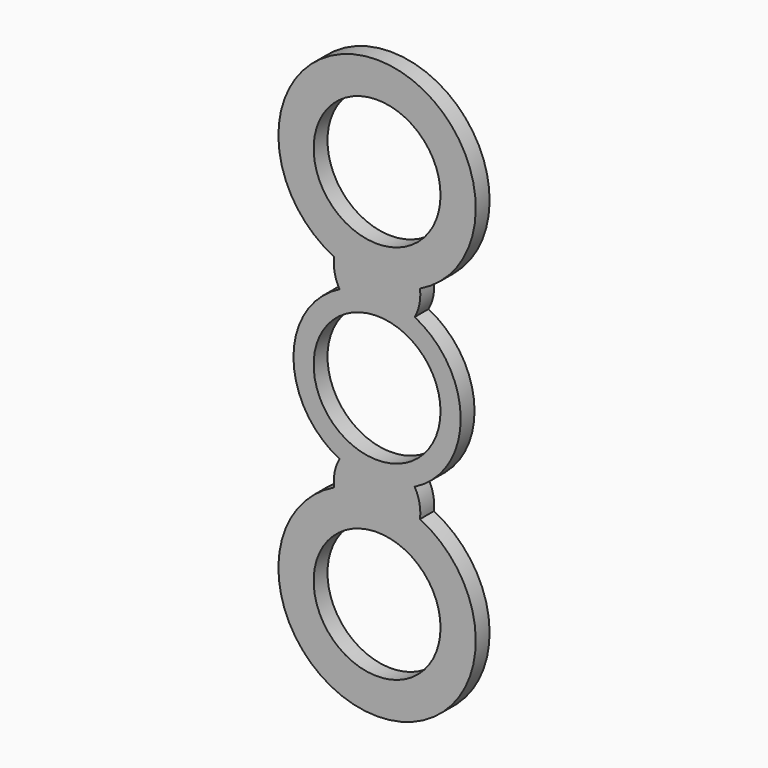
from build123d import *

# Parameters (mm, degrees)
F0_R     = 11
F1_DEPTH = 3


with BuildPart() as f1:
    # F0 (on Front) → F1 (new body)
    with BuildSketch(Plane.XZ):
        with BuildLine():
            ThreePointArc((7.440892, 17.60195), (0, 50.120705), (-7.440892, 17.60195))
            ThreePointArc((-7.440892, 17.60195), (-7.356547, 15.20233), (-6.518199, 12.952339))
            ThreePointArc((-6.518199, 12.952339), (-14.5, 0), (-6.518199, -12.952339))
            ThreePointArc((-6.518199, -12.952339), (-7.356547, -15.20233), (-7.440892, -17.60195))
            ThreePointArc((-7.440892, -17.60195), (0, -50.120705), (7.440892, -17.60195))
            ThreePointArc((7.440892, -17.60195), (7.356547, -15.20233), (6.518199, -12.952339))
            ThreePointArc((6.518199, -12.952339), (14.5, 0), (6.518199, 12.952339))
            ThreePointArc((6.518199, 12.952339), (7.356547, 15.20233), (7.440892, 17.60195))
        make_face()
        with Locations((0, -33.010021)):
            Circle(F0_R, mode=Mode.SUBTRACT)
        Circle(F0_R, mode=Mode.SUBTRACT)
        with Locations((0, 33.010021)):
            Circle(F0_R, mode=Mode.SUBTRACT)
    extrude(amount=F1_DEPTH)


solid = f1.part
